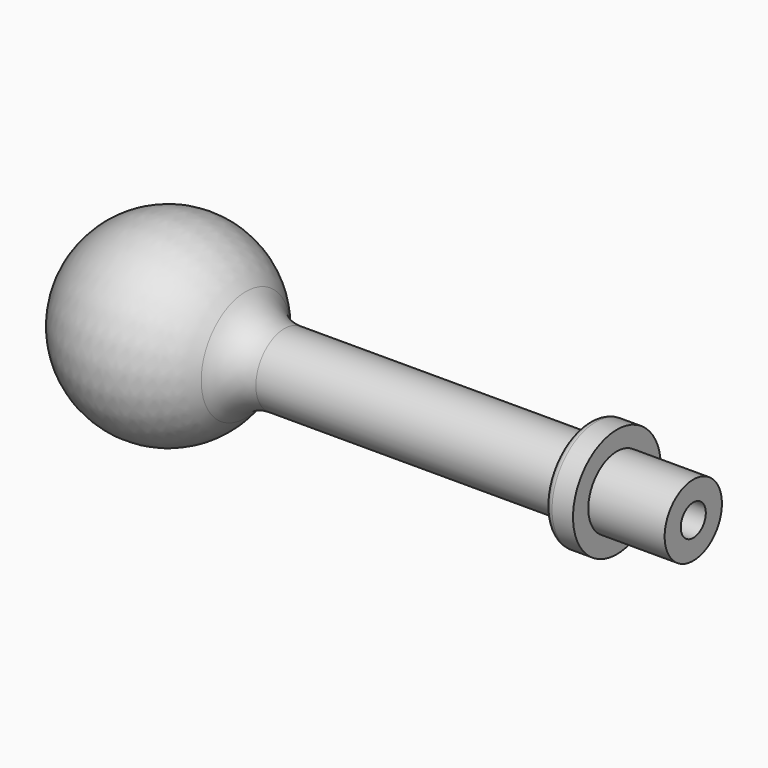
from build123d import *


with BuildPart() as f1:
    # F0 (on Top) → F1 (revolve)
    with BuildSketch(Plane.XY):
        with BuildLine():
            ThreePointArc((15.473036, 4.7625), (12.574671, 5.462546), (10.315357, 7.408333))
            ThreePointArc((10.315357, 7.408333), (-3.891334, 12.089149), (-12.7, 0))
            Line((-12.7, 0), (48.276267, 0))
            Line((48.276267, 0), (48.276267, 2.083863))
            Line((48.276267, 2.083863), (69.866267, 2.083863))
            Line((69.866267, 2.083863), (69.866267, 4.7625))
            Line((69.866267, 4.7625), (59.706267, 4.7625))
            Line((59.706267, 4.7625), (59.706267, 7.3025))
            Line((59.706267, 7.3025), (56.912267, 7.3025))
            ThreePointArc((56.912267, 7.3025), (56.193847, 7.00492), (55.896267, 6.2865))
            Line((55.896267, 6.2865), (55.896267, 5.7785))
            ThreePointArc((55.896267, 5.7785), (55.598688, 5.06008), (54.880267, 4.7625))
            Line((54.880267, 4.7625), (15.473036, 4.7625))
        make_face()
    revolve(axis=Axis((17.788134, 0, 0), (1, 0, 0)))


solid = f1.part
